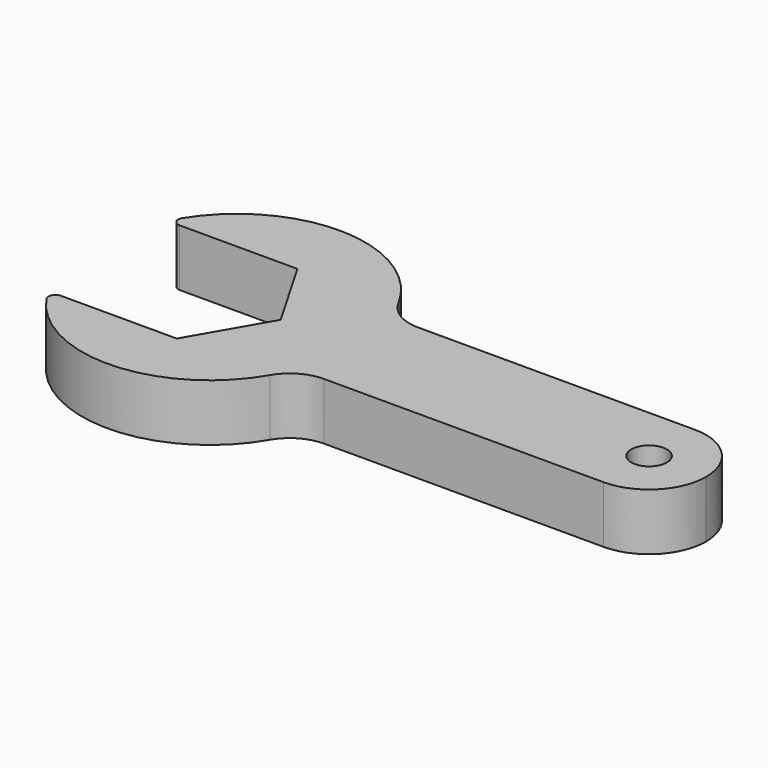
from build123d import *

# Parameters (mm, degrees)
F1_DEPTH = 12.7
F2_R     = 3.96875
F3_DEPTH = 12.701
F4_R     = 9.525
F5_R     = 1.5875


with BuildPart() as f1:
    # F0 (on Top) → F1 (new body)
    with BuildSketch(Plane.XY):
        with BuildLine():
            Line((-19.247415, 16.8275), (-9.715362, 16.8275))
            Line((-9.715362, 16.8275), (9.715362, 16.8275))
            Line((9.715362, 16.8275), (19.430723, 0))
            Line((19.430723, 0), (9.715362, -16.8275))
            Line((9.715362, -16.8275), (-9.715362, -16.8275))
            Line((-9.715362, -16.8275), (-18.879693, -16.8275))
            ThreePointArc((-18.879693, -16.8275), (8.495577, -31.687447), (33.187688, -12.7))
            Line((33.187688, -12.7), (101.6, -12.7))
            ThreePointArc((101.6, -12.7), (88.9, 0), (101.6, 12.7))
            Line((101.6, 12.7), (33.63367, 12.7))
            ThreePointArc((33.63367, 12.7), (8.588902, 32.646256), (-19.247415, 16.8275))
        make_face()
        with BuildLine():
            ThreePointArc((114.3, 0), (110.580256, 8.980256), (101.6, 12.7))
            ThreePointArc((101.6, 12.7), (88.9, 0), (101.6, -12.7))
            ThreePointArc((101.6, -12.7), (110.580256, -8.980256), (114.3, 0))
        make_face()
        with BuildLine():
            Line((-19.247415, 16.8275), (-9.715362, 16.8275))
            Line((-9.715362, 16.8275), (9.715362, 16.8275))
            Line((9.715362, 16.8275), (19.430723, 0))
            Line((19.430723, 0), (9.715362, -16.8275))
            Line((9.715362, -16.8275), (-9.715362, -16.8275))
            Line((-9.715362, -16.8275), (-18.879693, -16.8275))
            ThreePointArc((-18.879693, -16.8275), (8.495577, -31.687447), (33.187688, -12.7))
            Line((33.187688, -12.7), (101.6, -12.7))
            ThreePointArc((101.6, -12.7), (88.9, 0), (101.6, 12.7))
            Line((101.6, 12.7), (33.63367, 12.7))
            ThreePointArc((33.63367, 12.7), (8.588902, 32.646256), (-19.247415, 16.8275))
        make_face()
    extrude(amount=F1_DEPTH)

    # F2 (on face) → F3 (cut, through all)
    with BuildSketch(Plane.XY.offset(12.7)):
        with Locations((101.6, 0)):
            Circle(F2_R)
    extrude(amount=-F3_DEPTH, mode=Mode.SUBTRACT)

    # F4
    f4_edges = [f1.edges().sort_by_distance(p)[0] for p in [
        (33.63367, 12.7, 6.35),
        (33.187688, -12.7, 6.35),
    ]]
    fillet(f4_edges, radius=F4_R)

    # F5
    f5_edges = [f1.edges().sort_by_distance(p)[0] for p in [
        (-19.247415, 16.8275, 6.35),
        (-18.879693, -16.8275, 6.35),
    ]]
    fillet(f5_edges, radius=F5_R)


solid = f1.part
